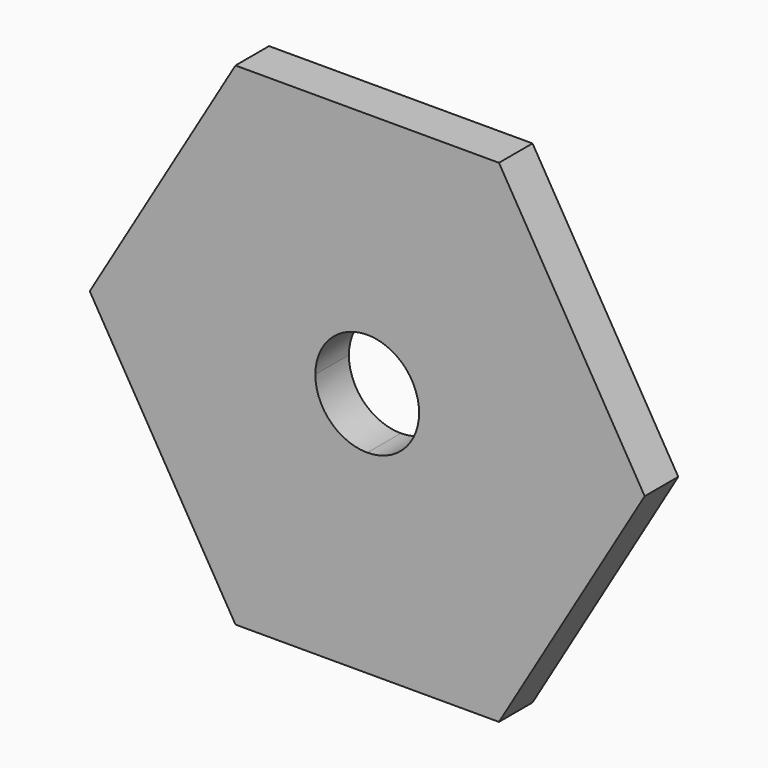
from build123d import *

# Parameters (mm, degrees)
F1_DEPTH = 2.3622


with BuildPart() as f1:
    # F0 (on Front) → F1 (new body)
    with BuildSketch(Plane.XZ):
        with BuildLine():
            Line((-21.86199, -9.231923), (-14.44519, -9.231923))
            Line((-14.44519, -9.231923), (-14.44519, 1.702777))
            ThreePointArc((-14.44519, 1.702777), (-16.510649, 2.558318), (-17.36619, 4.623777))
            Line((-17.36619, 4.623777), (-30.06619, 4.623777))
            Line((-30.06619, 4.623777), (-21.86199, -9.231923))
        make_face()
        with BuildLine():
            Line((-14.44519, 1.702777), (-14.44519, -9.231923))
            Line((-14.44519, -9.231923), (-7.02839, -9.231923))
            Line((-7.02839, -9.231923), (1.17581, 4.623777))
            Line((1.17581, 4.623777), (-11.52419, 4.623777))
            ThreePointArc((-11.52419, 4.623777), (-12.379731, 2.558318), (-14.44519, 1.702777))
        make_face()
        with BuildLine():
            Line((-30.06619, 4.623777), (-17.36619, 4.623777))
            ThreePointArc((-17.36619, 4.623777), (-16.510649, 6.689236), (-14.44519, 7.544777))
            Line((-14.44519, 7.544777), (-14.44519, 18.479477))
            Line((-14.44519, 18.479477), (-21.86199, 18.479477))
            Line((-21.86199, 18.479477), (-30.06619, 4.623777))
        make_face()
        with BuildLine():
            ThreePointArc((-14.44519, 7.544777), (-12.379731, 6.689236), (-11.52419, 4.623777))
            Line((-11.52419, 4.623777), (1.17581, 4.623777))
            Line((1.17581, 4.623777), (-7.02839, 18.479477))
            Line((-7.02839, 18.479477), (-14.44519, 18.479477))
            Line((-14.44519, 18.479477), (-14.44519, 7.544777))
        make_face()
    extrude(amount=F1_DEPTH)


solid = f1.part
